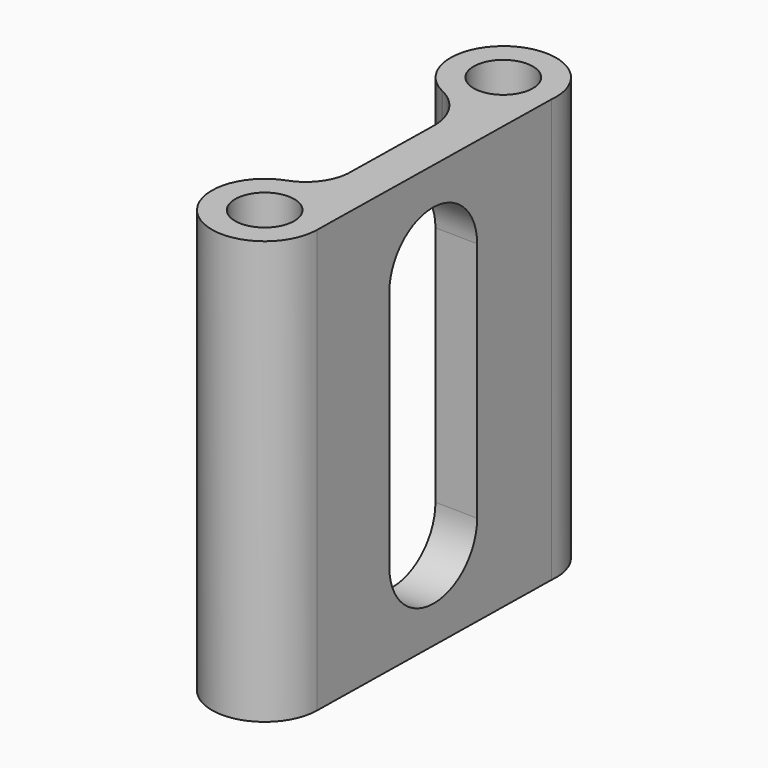
from build123d import *

# Parameters (mm, degrees)
F0_R     = 1.4
F1_DEPTH = 20
F3_DEPTH = 25


with BuildPart() as f1:
    # F0 (on Top) → F1 (new body)
    with BuildSketch(Plane.XY):
        with BuildLine():
            Line((-7.0003855483, -10.0099180601), (-6.7623309092, 3.5543028464))
            ThreePointArc((-6.7623309092, 3.5543028464), (-10.4585665785, 6.0054288438), (-10.3461336795, 1.5717468952))
            ThreePointArc((-10.3461336795, 1.5717468952), (-10.3233728773, 1.5610396555), (-10.3007163302, 1.5501135413))
            ThreePointArc((-10.3007163302, 1.5501135413), (-9.2560773016, 0.6249853883), (-8.8374101803, -0.706123413))
            ThreePointArc((-8.8374101803, -0.706123413), (-8.8362952804, -0.8408801673), (-8.8421380502, -0.9755148131))
            Line((-8.8421380502, -0.9755148131), (-8.9212343032, -5.4823753058))
            ThreePointArc((-8.9212343032, -5.4823753058), (-8.9185680619, -5.6331193754), (-8.9265222058, -5.7836770552))
            ThreePointArc((-8.9265222058, -5.7836770552), (-9.3628437334, -6.9014074118), (-10.3321539521, -7.6086098761))
            ThreePointArc((-10.3321539521, -7.6086098761), (-10.33956522, -7.6112390978), (-10.3469681809, -7.6138916189))
            ThreePointArc((-10.3469681809, -7.6138916189), (-10.9553516609, -11.9987700238), (-7.0003855483, -10.0099180601))
        make_face()
        with Locations((-9.5000006258, -9.9660493433)):
            Circle(F0_R, mode=Mode.SUBTRACT)
        with Locations((-9.248400609, 3.8178506564)):
            Circle(F0_R, mode=Mode.SUBTRACT)
        with BuildLine():
            ThreePointArc((-10.3007163302, 1.5501135413), (-10.3233728773, 1.5610396555), (-10.3461336795, 1.5717468952))
            ThreePointArc((-10.3461336795, 1.5717468952), (-10.323479421, 1.5608159761), (-10.3007163302, 1.5501135413))
        make_face()
        with BuildLine():
            ThreePointArc((-8.8421380502, -0.9755148131), (-8.8362952804, -0.8408801673), (-8.8374101803, -0.706123413))
            Line((-8.8374101803, -0.706123413), (-8.8421380502, -0.9755148131))
        make_face()
        with BuildLine():
            Line((-8.9212343032, -5.4823753058), (-8.9265222058, -5.7836770552))
            ThreePointArc((-8.9265222058, -5.7836770552), (-8.9185680619, -5.6331193754), (-8.9212343032, -5.4823753058))
        make_face()
    extrude(amount=F1_DEPTH)

    # F2 (on face) → F3 (cut)
    with BuildSketch(Plane(origin=(-8.822300232, 0.1548330356, 0), x_dir=(-0.0175474867, -0.999846031, 0), z_dir=(-0.999846031, 0.0175474867, 0))):
        with BuildLine():
            Line((5.939424578, 4.2884354293), (5.939424578, 15.7115645707))
            ThreePointArc((5.939424578, 15.7115645707), (3.4002568038, 18.2507323449), (0.8610890296, 15.7115645707))
            Line((0.8610890296, 15.7115645707), (0.8610890296, 4.2884354293))
            ThreePointArc((0.8610890296, 4.2884354293), (3.4002568038, 1.7492676551), (5.939424578, 4.2884354293))
        make_face()
    extrude(amount=-F3_DEPTH, mode=Mode.SUBTRACT)


solid = f1.part
